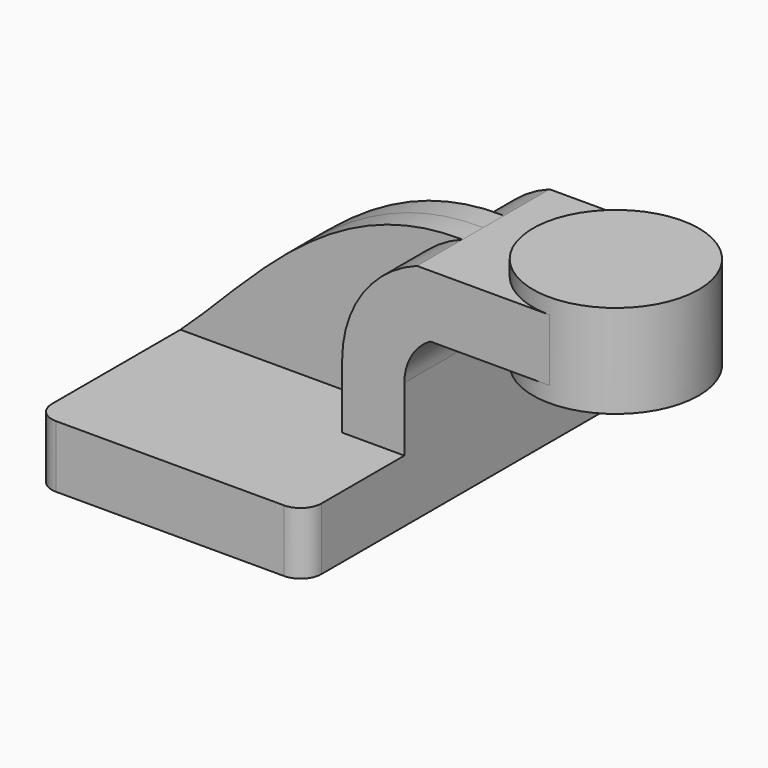
from build123d import *

# Parameters (mm, degrees)
F1_DEPTH = 63.5
F0_W     = 25.4
F0_H     = 19.05
F2_DEPTH = 25.4
F3_DEPTH = 7.9375
F5_R     = 6.35


with BuildPart() as f1:
    # F0 (on Front) → F1 (new body, symmetric)
    with BuildSketch(Plane.XZ):
        Polygon((22.225, 9.525), (-41.275, 9.525), (-41.275, -9.525), (41.275, -9.525), (41.275, 9.525), align=None)
    extrude(amount=F1_DEPTH, both=True)

    # F0 (on Front) → F2 (join, symmetric)
    with BuildSketch(Plane.XZ):
        with BuildLine():
            Line((22.225, 29.1359246056), (22.225, 9.525))
            Line((22.225, 9.525), (41.275, 9.525))
            Line((41.275, 9.525), (41.275, 29.1359246056))
            ThreePointArc((41.275, 29.1359246056), (43.397414206, 37.0657423196), (49.1971428634, 42.8752))
            Line((49.1971428634, 42.8752), (60.325, 42.8752))
            Line((60.325, 42.8752), (60.325, 61.9252))
            Line((60.325, 61.9252), (45.1242341571, 61.9252))
            ThreePointArc((45.1242341571, 61.9252), (28.5164925562, 49.1328712842), (22.225, 29.1359246056))
        make_face()
        with Locations((73.025, 52.4002)):
            Rectangle(F0_W, F0_H)
    extrude(amount=F2_DEPTH, both=True)

    # F0 (on Front) → F3 (join, symmetric)
    with BuildSketch(Plane.XZ):
        with BuildLine():
            add(Edge.make_bspline(
                [(-41.275, 9.525), (-20.1643432395, 28.6567257552), (4.2580552399, 62.6568291336), (45.1242341571, 61.9252)],
                knots=[0, 0, 0, 0, 101.0475562445, 101.0475562445, 101.0475562445, 101.0475562445], degree=3))
            Line((-41.275, 9.525), (22.225, 9.525))
            Line((22.225, 9.525), (22.225, 29.1359246056))
            ThreePointArc((22.225, 29.1359246056), (28.5164925562, 49.1328712842), (45.1242341571, 61.9252))
        make_face()
    extrude(amount=F3_DEPTH, both=True)

    # F5
    f5_edges = [f1.edges().sort_by_distance(p)[0] for p in [
        (-41.275, -63.5, 0),
        (41.275, -63.5, 0),
        (-41.275, 63.5, 0),
        (41.275, 63.5, 0),
    ]]
    fillet(f5_edges, radius=F5_R)


with BuildPart() as f4:
    # F0 (on Front) → F4 (revolve)
    with BuildSketch(Plane.XZ):
        Polygon((85.725, 66.675), (85.725, 61.9252), (85.725, 42.8752), (85.725, 38.1), (111.125, 38.1), (111.125, 66.675), align=None)
    revolve(axis=Axis((85.725, 0, 52.3875), (0, 0, 1)))


solid = Compound([f1.part, f4.part])
